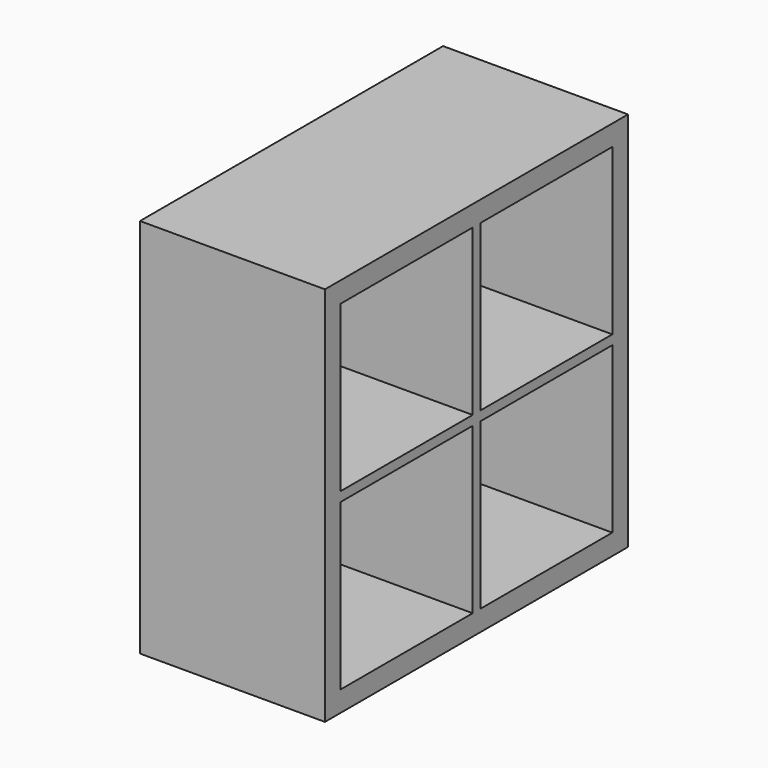
from build123d import *

# Parameters (mm, degrees)
F0_W     = 757.936
F0_H     = 762
F1_DEPTH = 370.078
F2_W     = 330.2
F2_H     = 330.2
F3_DEPTH = 370.079


with BuildPart() as f1:
    # F0 (on Right) → F1 (new body)
    with BuildSketch(Plane.YZ):
        Rectangle(F0_W, F0_H)
    extrude(amount=-F1_DEPTH)

    # F2 (on face) → F3 (cut, through all)
    with BuildSketch(Plane.YZ):
        with Locations((-174.625, 174.625)):
            Rectangle(F2_W, F2_H)
        with Locations((174.625, 174.625)):
            Rectangle(F2_W, F2_H)
        with Locations((174.625, -174.625)):
            Rectangle(F2_W, F2_H)
        with Locations((-174.625, -174.625)):
            Rectangle(F2_W, F2_H)
    extrude(amount=-F3_DEPTH, mode=Mode.SUBTRACT)


solid = f1.part
